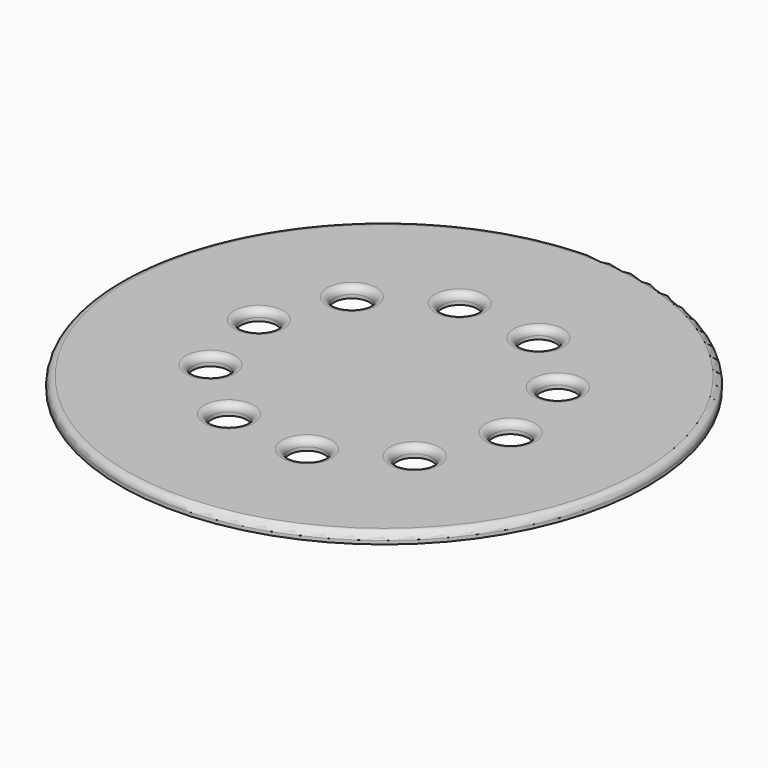
from build123d import *

# Parameters (mm, degrees)
F0_R     = 75
F1_DEPTH = 3
F3_D     = 10
F4_R     = 2


with BuildPart() as f1:
    # F0 (on Top) → F1 (new body)
    with BuildSketch(Plane.XY):
        with Locations((-21.456456, 5.640275)):
            Circle(F0_R)
    extrude(amount=F1_DEPTH)

    # F3 (through all)
    with Locations(Plane.XY.offset(3)):
        with Locations((-50.939899, 31.044248), (-30.303501, 43.539682), (-6.267637, 41.472315), (11.931942, 25.63653), (17.30207, 2.117208), (7.779281, -20.04838), (-12.977303, -32.343133), (-36.991992, -30.042808), (-55.03717, -14.031302), (-60.178999, 9.538984)):
            Hole(F3_D / 2)

    # F4
    f4_edges = [f1.edges().sort_by_distance(p)[0] for p in [
        (-96.456456, 5.640275, 3),
        (-41.991992, -30.042808, 3),
        (-60.03717, -14.031302, 3),
        (-17.977303, -32.343133, 3),
        (2.779281, -20.04838, 3),
        (12.30207, 2.117208, 3),
        (-65.178999, 9.538984, 3),
        (-55.939899, 31.044248, 3),
        (-35.303501, 43.539682, 3),
        (6.931942, 25.63653, 3),
        (-11.267637, 41.472315, 3),
    ]]
    fillet(f4_edges, radius=F4_R)


solid = f1.part
